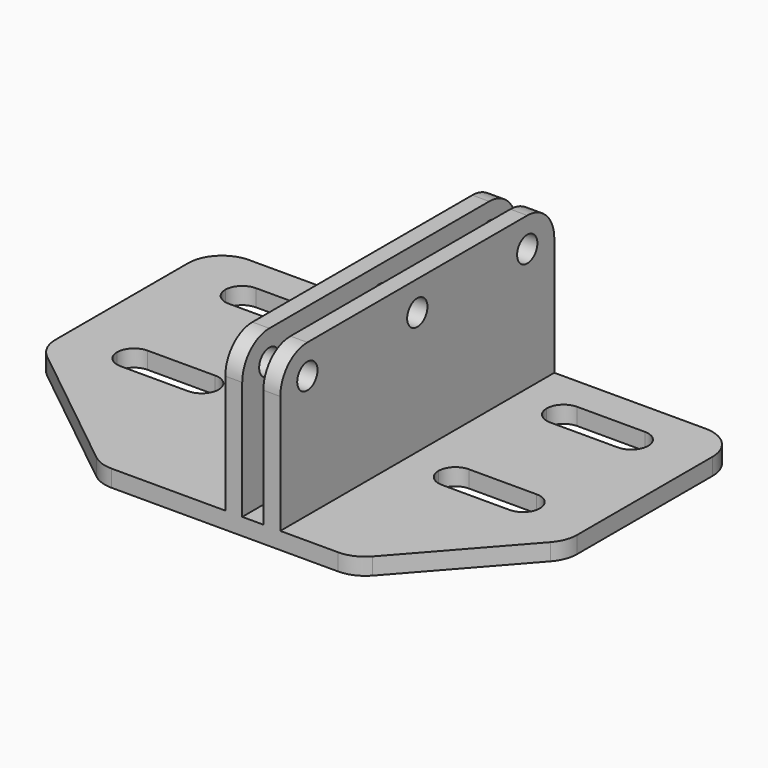
from build123d import *

# Parameters (mm, degrees)
F1_DEPTH  = 6.35
F3_DEPTH  = 6.351
F4_W      = 6.35
F4_H      = 128.6002
F5_DEPTH  = 57.15
F6_R      = 4.7625
F7_DEPTH  = 90.18069
F10_DEPTH = 6.35
F11_R     = 12.7


with BuildPart() as f1:
    # F0 (on Top) → F1 (new body)
    with BuildSketch(Plane.XY):
        with BuildLine():
            Line((83.173356, 54.800538), (-88.276644, 54.800538))
            ThreePointArc((-88.276644, 54.800538), (-97.2569, 51.080794), (-100.976644, 42.100538))
            Line((-100.976644, 42.100538), (-100.976644, -20.125523))
            ThreePointArc((-100.976644, -20.125523), (-99.721515, -25.630513), (-96.204216, -30.047398))
            Line((-96.204216, -30.047398), (-44.922399, -71.021537))
            ThreePointArc((-44.922399, -71.021537), (-41.194957, -73.085024), (-36.994827, -73.799662))
            Line((-36.994827, -73.799662), (48.082449, -73.799662))
            ThreePointArc((48.082449, -73.799662), (53.299506, -72.678622), (57.595535, -69.513412))
            Line((57.595535, -69.513412), (92.686442, -29.837545))
            ThreePointArc((92.686442, -29.837545), (95.049934, -25.922339), (95.873356, -21.423795))
            Line((95.873356, -21.423795), (95.873356, 42.100538))
            ThreePointArc((95.873356, 42.100538), (92.153612, 51.080794), (83.173356, 54.800538))
        make_face()
    extrude(amount=F1_DEPTH)

    # F2 (on face) → F3 (cut, through all)
    with BuildSketch(Plane.XY.offset(6.35)):
        with BuildLine():
            ThreePointArc((-43.826644, -15.049462), (-45.686516, -10.559334), (-50.176644, -8.699462))
            Line((-50.176644, -8.699462), (-75.576644, -8.699462))
            ThreePointArc((-75.576644, -8.699462), (-80.066772, -10.559334), (-81.926644, -15.049462))
            ThreePointArc((-81.926644, -15.049462), (-80.066772, -19.53959), (-75.576644, -21.399462))
            Line((-75.576644, -21.399462), (-50.176644, -21.399462))
            ThreePointArc((-50.176644, -21.399462), (-45.686516, -19.53959), (-43.826644, -15.049462))
        make_face()
        with BuildLine():
            ThreePointArc((76.823356, -15.049462), (74.963484, -10.559334), (70.473356, -8.699462))
            Line((70.473356, -8.699462), (45.073356, -8.699462))
            ThreePointArc((45.073356, -8.699462), (40.583228, -10.559334), (38.723356, -15.049462))
            ThreePointArc((38.723356, -15.049462), (40.583228, -19.53959), (45.073356, -21.399462))
            Line((45.073356, -21.399462), (70.473356, -21.399462))
            ThreePointArc((70.473356, -21.399462), (74.963484, -19.53959), (76.823356, -15.049462))
        make_face()
        with BuildLine():
            Line((70.473356, 42.100538), (45.073356, 42.100538))
            ThreePointArc((45.073356, 42.100538), (40.583228, 40.240666), (38.723356, 35.750538))
            ThreePointArc((38.723356, 35.750538), (40.583228, 31.26041), (45.073356, 29.400538))
            Line((45.073356, 29.400538), (70.473356, 29.400538))
            ThreePointArc((70.473356, 29.400538), (74.963484, 31.26041), (76.823356, 35.750538))
            ThreePointArc((76.823356, 35.750538), (74.963484, 40.240666), (70.473356, 42.100538))
        make_face()
        with BuildLine():
            Line((-50.176644, 42.100538), (-75.576644, 42.100538))
            ThreePointArc((-75.576644, 42.100538), (-80.066772, 40.240666), (-81.926644, 35.750538))
            ThreePointArc((-81.926644, 35.750538), (-80.066772, 31.26041), (-75.576644, 29.400538))
            Line((-75.576644, 29.400538), (-50.176644, 29.400538))
            ThreePointArc((-50.176644, 29.400538), (-45.686516, 31.26041), (-43.826644, 35.750538))
            ThreePointArc((-43.826644, 35.750538), (-45.686516, 40.240666), (-50.176644, 42.100538))
        make_face()
    extrude(amount=-F3_DEPTH, mode=Mode.SUBTRACT)

    # F4 (on face) → F5 (join)
    with BuildSketch(Plane.XY.offset(6.35)):
        with Locations((8.868666, -9.499562)):
            Rectangle(F4_W, F4_H)
        with Locations((23.156166, -9.499562)):
            Rectangle(F4_W, F4_H)
    extrude(amount=F5_DEPTH)

    # F6 (on face) → F7 (cut, through all)
    with BuildSketch(Plane(origin=(5.693666, 0, 0), x_dir=(0, -1, 0), z_dir=(-1, 0, 0))):
        with Locations((-42.100538, 52.3875)):
            Circle(F6_R)
        with Locations((9.499562, 52.3875)):
            Circle(F6_R)
        with Locations((61.099662, 52.3875)):
            Circle(F6_R)
    extrude(amount=-F7_DEPTH, mode=Mode.SUBTRACT)

    # F9 (on offset) → F10 (join)
    with BuildSketch(Plane.XZ.offset(-12.7)):
        Polygon((5.693666, 6.35), (5.693666, 63.5), (-45.106334, 6.35), align=None)
    extrude(amount=-F10_DEPTH)

    # F11
    f11_edges = [f1.edges().sort_by_distance(p)[0] for p in [
        (8.868666, -73.799662, 63.5),
        (23.156166, -73.799662, 63.5),
        (23.156166, 54.800538, 63.5),
        (8.868666, 54.800538, 63.5),
    ]]
    fillet(f11_edges, radius=F11_R)


solid = f1.part
